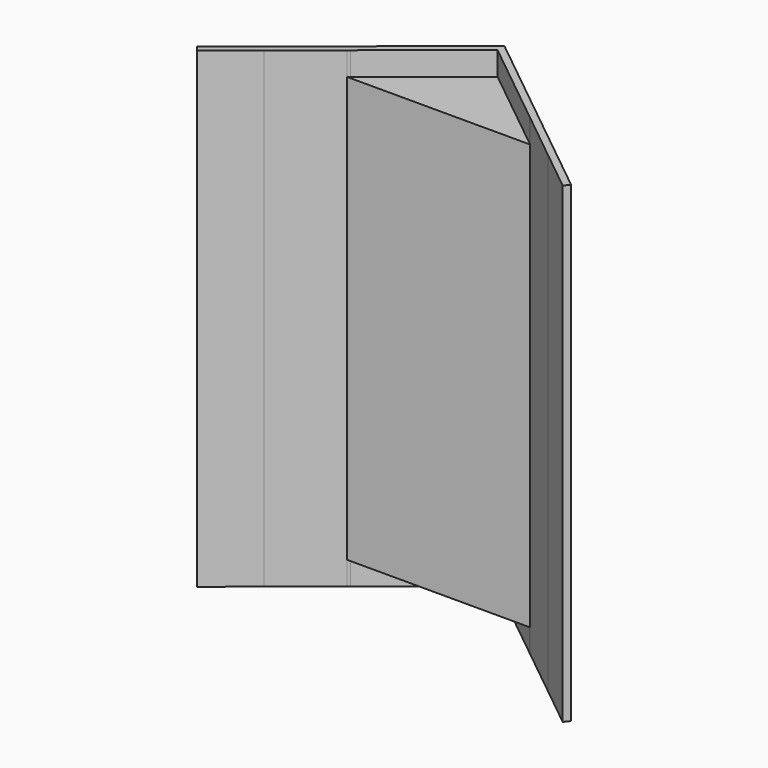
from build123d import *

# Parameters (mm, degrees)
F1_DEPTH      = 1335
F1_DEPTH_BACK = 70
F2_DEPTH      = 1265


with BuildPart() as f1:
    # F0 (on Top) → F1 (new body, two sides)
    with BuildSketch(Plane.XY) as f1_sk:
        Polygon((-511.779412, -188.564185), (-390, -90.564185), (-390, -64.892439), (-524.318235, -172.982853), align=None)
        Polygon((-390, -90.564185), (-239.639706, 30.435815), (-233.426471, 35.435815), (32.5, 249.435815), (0.59908, 249.435815), (-390, -64.892439), align=None)
        Polygon((0.59908, 249.435815), (32.5, 249.435815), (64.40092, 249.435815), (32.5, 275.107561), align=None)
        Polygon((64.40092, 249.435815), (32.5, 249.435815), (298.426471, 35.435815), (304.639706, 30.435815), (455, -90.564185), (455, -64.892439), align=None)
        Polygon((455, -64.892439), (455, -90.564185), (576.779412, -188.564185), (589.318235, -172.982853), align=None)
    extrude(amount=F1_DEPTH)
    extrude(f1_sk.sketch, amount=-F1_DEPTH_BACK)

    # F0 (on Top) → F2 (join)
    with BuildSketch(Plane.XY):
        Polygon((32.5, 249.435815), (-233.426471, 35.435815), (32.5, 35.435815), (298.426471, 35.435815), align=None)
        Polygon((-233.426471, 35.435815), (-239.639706, 30.435815), (32.5, 30.435815), (304.639706, 30.435815), (298.426471, 35.435815), (32.5, 35.435815), align=None)
    extrude(amount=F2_DEPTH)


solid = f1.part
